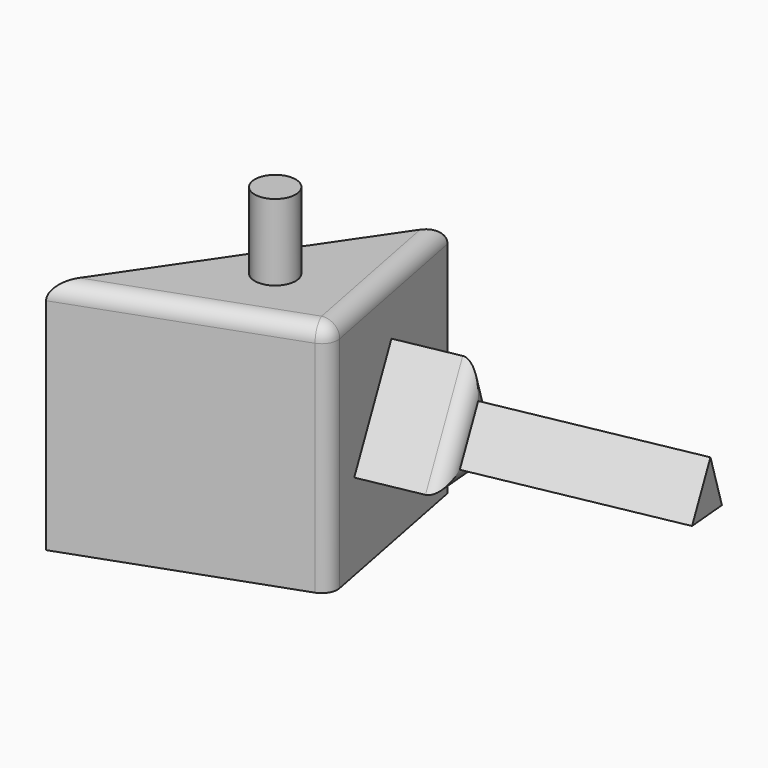
from build123d import *

# Parameters (mm, degrees)
F1_DEPTH = 74.9415531754
F2_R     = 5.08
F3_R     = 6.5155077524
F4_DEPTH = 24.241162464
F6_DEPTH = 25
F7_R     = 5
F8_DEPTH = 25
F9_DEPTH = 40.1649922132


with BuildPart() as f1:
    # F0 (on Top) → F1 (new body)
    with BuildSketch(Plane.XY):
        Polygon((38.1590723991, -25.1938253641), (26.3724923134, 35.654425621), (-32.413110137, -50.5349785089), align=None)
    extrude(amount=F1_DEPTH)

    # F2
    f2_edges = [f1.edges().sort_by_distance(p)[0] for p in [
        (2.872981, -37.864402, 74.941553),
        (32.265782, 5.2303, 74.941553),
        (38.159072, -25.193825, 37.470777),
    ]]
    fillet(f2_edges, radius=F2_R)

    # F3 (on face) → F4 (join)
    with BuildSketch(Plane.XY.offset(74.9415531754)):
        with Locations((8.9773815125, -11.1496802419)):
            Circle(F3_R)
    extrude(amount=F4_DEPTH)

    # F5 (on face) → F6 (join)
    with BuildSketch(Plane(origin=(32.0754000375, 6.2131493544, 0), x_dir=(-0.1901696352, 0.9817512464, 0), z_dir=(0.9817512464, 0.1901696352, 0))):
        Polygon((0, 57.1491196752), (-19.9005380273, 27.401227504), (12.399494648, 24.3145730346), align=None)
    extrude(amount=F6_DEPTH)

    # F7
    f7_edges = [f1.edges().sort_by_distance(p)[0] for p in [
        (55.440178, 17.054, 40.731846),
        (57.332417, 7.285311, 25.8579),
        (58.51142, 1.198701, 42.275174),
    ]]
    fillet(f7_edges, radius=F7_R)

    # F8 (add): a face of the model
    f8_faces = [f1.faces().sort_by_distance(p)[0] for p in [
        (57.091234066, 8.5304160504, 35.9772892723),
    ]]
    extrude(f8_faces, amount=F8_DEPTH)

    # F9 (add): a face of the model
    f9_faces = [f1.faces().sort_by_distance(p)[0] for p in [
        (81.6350152267, 13.2846569295, 35.9772892723),
    ]]
    extrude(f9_faces, amount=F9_DEPTH)


solid = f1.part
